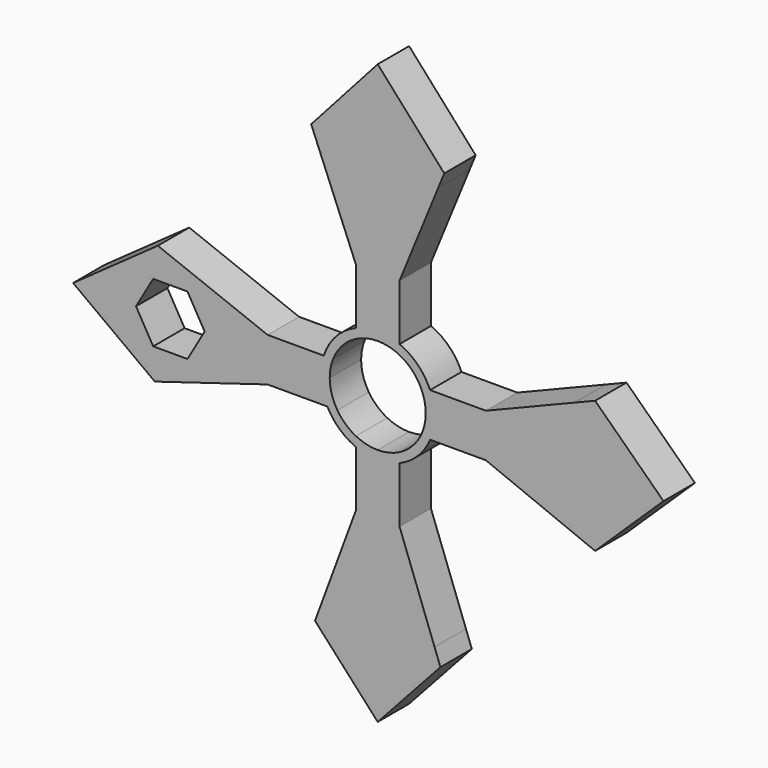
from build123d import *

# Parameters (mm, degrees)
F1_DEPTH = 9


with BuildPart() as f1:
    # F0 (on Front) → F1 (new body)
    with BuildSketch(Plane.XZ):
        with BuildLine():
            Line((13, 0), (11, 0))
            ThreePointArc((11, 0), (10.695268783, -2.5712303784), (9.7979589711, -5))
            Line((9.7979589711, -5), (12, -5))
            ThreePointArc((12, -5), (12.747548784, -2.5495097568), (13, 0))
        make_face()
        with BuildLine():
            ThreePointArc((9.7979589711, 5), (10.695268783, 2.5712303784), (11, 0))
            Line((11, 0), (13, 0))
            ThreePointArc((13, 0), (12.747548784, 2.5495097568), (12, 5))
            Line((12, 5), (9.7979589711, 5))
        make_face()
        with BuildLine():
            ThreePointArc((5, 9.7979589711), (7.7781745931, 7.7781745931), (9.7979589711, 5))
            Line((9.7979589711, 5), (12, 5))
            ThreePointArc((12, 5), (9.1923881554, 9.1923881554), (5, 12))
            Line((5, 12), (5, 9.7979589711))
        make_face()
        with BuildLine():
            Line((12, -5), (9.7979589711, -5))
            ThreePointArc((9.7979589711, -5), (7.7781745931, -7.7781745931), (5, -9.7979589711))
            Line((5, -9.7979589711), (5, -12))
            ThreePointArc((5, -12), (9.1923881554, -9.1923881554), (12, -5))
        make_face()
        with BuildLine():
            Line((24.7979589711, 0), (13, 0))
            ThreePointArc((13, 0), (12.747548784, -2.5495097568), (12, -5))
            Line((12, -5), (24.7979589711, -5))
            Line((24.7979589711, -5), (24.7979589711, 0))
        make_face()
        with BuildLine():
            ThreePointArc((12, 5), (12.747548784, 2.5495097568), (13, 0))
            Line((13, 0), (24.7979589711, 0))
            Line((24.7979589711, 0), (24.7979589711, 5))
            Line((24.7979589711, 5), (12, 5))
        make_face()
        with BuildLine():
            ThreePointArc((0, 11), (2.5712303784, 10.695268783), (5, 9.7979589711))
            Line((5, 9.7979589711), (5, 12))
            ThreePointArc((5, 12), (2.5495097568, 12.747548784), (0, 13))
            Line((0, 13), (0, 11))
        make_face()
        with BuildLine():
            Line((5, -12), (5, -9.7979589711))
            ThreePointArc((5, -9.7979589711), (2.5712303784, -10.695268783), (0, -11))
            Line((0, -11), (0, -13))
            ThreePointArc((0, -13), (2.5495097568, -12.747548784), (5, -12))
        make_face()
        with BuildLine():
            Line((0, -13), (0, -11))
            ThreePointArc((0, -11), (-2.5712303784, -10.695268783), (-5, -9.7979589711))
            Line((-5, -9.7979589711), (-5, -12))
            ThreePointArc((-5, -12), (-2.5495097568, -12.747548784), (0, -13))
        make_face()
        with BuildLine():
            Line((-13, 0), (-11, 0))
            ThreePointArc((-11, 0), (-10.807426658, 2.0492752456), (-10.2364492669, 4.0267985307))
            Line((-10.2364492669, 4.0267985307), (-12.3606186574, 4.0267985307))
            ThreePointArc((-12.3606186574, 4.0267985307), (-12.8391596794, 2.0386217715), (-13, 0))
        make_face()
        with BuildLine():
            ThreePointArc((-9.2369293711, -5.9732014693), (-10.550028983, -3.1139827326), (-11, 0))
            Line((-11, 0), (-13, 0))
            ThreePointArc((-13, 0), (-12.6313904767, -3.073755785), (-11.5464654422, -5.9732014693))
            Line((-11.5464654422, -5.9732014693), (-9.2369293711, -5.9732014693))
        make_face()
        with BuildLine():
            ThreePointArc((-5, 9.7979589711), (-2.5712303784, 10.695268783), (0, 11))
            Line((0, 11), (0, 13))
            ThreePointArc((0, 13), (-2.5495097568, 12.747548784), (-5, 12))
            Line((-5, 12), (-5, 9.7979589711))
        make_face()
        Polygon((45.145274992, 0), (24.7979589711, 0), (24.7979589711, -5), (45.145274992, -13.2566292219), align=None)
        Polygon((24.7979589711, 5), (24.7979589711, 0), (45.145274992, 0), (45.145274992, 13.2566292219), align=None)
        with BuildLine():
            ThreePointArc((0, 13), (2.5495097568, 12.747548784), (5, 12))
            Line((5, 12), (5, 24.7979589711))
            Line((5, 24.7979589711), (0, 24.7979589711))
            Line((0, 24.7979589711), (0, 13))
        make_face()
        with BuildLine():
            Line((5, -24.7979589711), (5, -12))
            ThreePointArc((5, -12), (2.5495097568, -12.747548784), (0, -13))
            Line((0, -13), (0, -24.7979589711))
            Line((0, -24.7979589711), (5, -24.7979589711))
        make_face()
        with BuildLine():
            Line((-5, -12), (-5, -9.7979589711))
            ThreePointArc((-5, -9.7979589711), (-7.3708705026, -8.1651863441), (-9.2369293711, -5.9732014693))
            Line((-9.2369293711, -5.9732014693), (-11.5464654422, -5.9732014693))
            ThreePointArc((-11.5464654422, -5.9732014693), (-8.8049392269, -9.5641541816), (-5, -12))
        make_face()
        with BuildLine():
            Line((0, -24.7979589711), (0, -13))
            ThreePointArc((0, -13), (-2.5495097568, -12.747548784), (-5, -12))
            Line((-5, -12), (-5, -24.7979589711))
            Line((-5, -24.7979589711), (0, -24.7979589711))
        make_face()
        with BuildLine():
            Line((-12.3606186574, 4.0267985307), (-10.2364492669, 4.0267985307))
            ThreePointArc((-10.2364492669, 4.0267985307), (-8.1464053283, 7.3916223001), (-5, 9.7979589711))
            Line((-5, 9.7979589711), (-5, 12))
            ThreePointArc((-5, 12), (-9.5520026936, 8.8181202385), (-12.3606186574, 4.0267985307))
        make_face()
        with BuildLine():
            Line((-25.2364492669, 0), (-13, 0))
            ThreePointArc((-13, 0), (-12.8391596794, 2.0386217715), (-12.3606186574, 4.0267985307))
            Line((-12.3606186574, 4.0267985307), (-25.2364492669, 4.0267985307))
            Line((-25.2364492669, 4.0267985307), (-25.2364492669, 0))
        make_face()
        with BuildLine():
            ThreePointArc((-11.5464654422, -5.9732014693), (-12.6313904767, -3.073755785), (-13, 0))
            Line((-13, 0), (-25.2364492669, 0))
            Line((-25.2364492669, 0), (-25.2364492669, -0.9732014693))
            Line((-25.2364492669, -0.9732014693), (-25.2364492669, -5.9732014693))
            Line((-25.2364492669, -5.9732014693), (-11.5464654422, -5.9732014693))
        make_face()
        with BuildLine():
            ThreePointArc((-5, 12), (-2.5495097568, 12.747548784), (0, 13))
            Line((0, 13), (0, 24.7979589711))
            Line((0, 24.7979589711), (-5, 24.7979589711))
            Line((-5, 24.7979589711), (-5, 12))
        make_face()
        Polygon((45.145274992, 13.2566292219), (45.145274992, 0), (65.492591013, 0), (49.8166139769, 15.1521870403), align=None)
        Polygon((65.492591013, 0), (45.145274992, 0), (45.145274992, -13.2566292219), (49.8166139769, -15.1521870403), align=None)
        Polygon((0, 24.7979589711), (5, 24.7979589711), (13.9004829156, 46.4947918511), (0, 46.4947918511), align=None)
        Polygon((13.0237015361, -46.4836081518), (5, -24.7979589711), (0, -24.7979589711), (0, -46.4836081518), align=None)
        Polygon((0, -46.4836081518), (0, -24.7979589711), (-5, -24.7979589711), (-13.0237015361, -46.4836081518), (-1.1742307931, -46.4836081518), align=None)
        Polygon((-39.6632513358, 0), (-25.2364492669, 0), (-25.2364492669, 4.0267985307), (-47.5232979005, 12.7201679595), (-47.5232979005, 6.807), (-43.5932746181, 6.807), align=None)
        Polygon((-25.2364492669, -0.9732014693), (-25.2364492669, 0), (-39.6632513358, 0), (-43.5932746181, -6.807), (-47.5232979005, -6.807), (-47.5232979005, -12.7201679595), (-25.2364492669, -5.9732014693), align=None)
        Polygon((-5, 24.7979589711), (0, 24.7979589711), (0, 46.4947918511), (-13.9004829156, 46.4947918511), align=None)
        Polygon((0, 46.4947918511), (13.9004829156, 46.4947918511), (15.2472511326, 49.7778277503), (0, 66.8410263726), align=None)
        Polygon((14.3692514548, -50.1202244144), (13.0237015361, -46.4836081518), (0, -46.4836081518), (0, -65.8470422888), align=None)
        Polygon((0, -65.8470422888), (0, -46.4836081518), (-1.1742307931, -46.4836081518), (-13.0237015361, -46.4836081518), (-14.3692514548, -50.1202244144), align=None)
        Polygon((-13.9004829156, 46.4947918511), (0, 46.4947918511), (0, 66.8410263726), (-15.2472511326, 49.7778277503), align=None)
        Polygon((-47.5232979005, 6.807), (-47.5232979005, 12.7201679595), (-50.3905497057, 13.8385889439), (-69.8101465342, 0), (-55.3833444653, 0), (-51.4533211829, 6.807), align=None)
        Polygon((-51.0782389318, -13.7963662326), (-47.5232979005, -12.7201679595), (-47.5232979005, -6.807), (-51.4533211829, -6.807), (-55.3833444653, 0), (-69.8101465342, 0), align=None)
    extrude(amount=F1_DEPTH)


solid = f1.part
